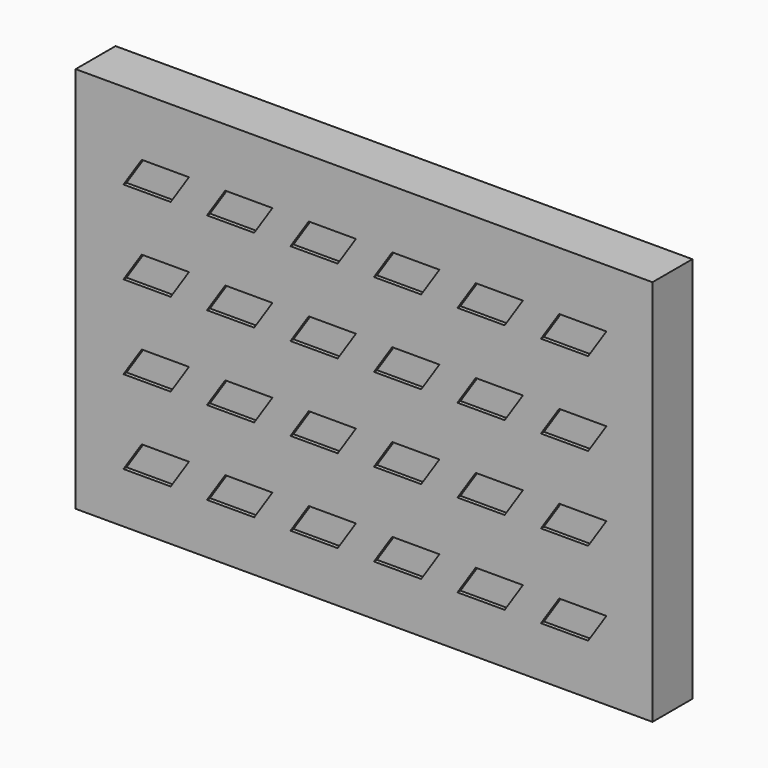
from build123d import *

# Parameters (mm, degrees)
F1_DEPTH = 614.3171619624
F2_T     = -25.4
F2_2_T   = -25.4
F2_3_T   = -25.4
F2_4_T   = -25.4
F2_5_T   = -25.4
F2_6_T   = -25.4
F2_7_T   = -25.4
F2_8_T   = -25.4
F2_9_T   = -25.4
F2_10_T  = -25.4
F2_11_T  = -25.4
F2_12_T  = -25.4
F2_13_T  = -25.4
F2_14_T  = -25.4
F2_15_T  = -25.4
F2_16_T  = -25.4
F2_17_T  = -25.4
F2_18_T  = -25.4
F2_19_T  = -25.4
F2_20_T  = -25.4
F2_21_T  = -25.4
F2_22_T  = -25.4
F2_23_T  = -25.4
F2_24_T  = -25.4
F0_W     = 3810
F0_H     = 2540
F3_DEPTH = 308.5524570197
F4_T     = 25.4


with BuildPart() as f1:
    # F0 (on Front) → F1 (new body)
    with BuildSketch(Plane.XZ):
        Polygon((978.6123950649, 1083.0130463778), (601.6698796917, 1083.0130463778), (446.1696592088, 846.6550945282), (823.112174582, 846.6550945282), align=None)
    extrude(amount=-F1_DEPTH)

    # F2#7
    f2_7_openings = [f1.faces().sort_by_distance(p)[0] for p in [
        (712.391027, 614.317162, 964.83407),
    ]]
    offset(amount=F2_7_T, openings=f2_7_openings)


with BuildPart() as f1b:
    # F0 (on Front) → F1, piece 2 (new body)
    with BuildSketch(Plane.XZ):
        Polygon((978.6124320554, 524.2130463778), (601.6699166821, 524.2130463778), (446.1696961992, 287.8550945282), (823.1122115724, 287.8550945282), align=None)
    extrude(amount=-F1_DEPTH)

    # F2#8
    f2_8_openings = [f1b.faces().sort_by_distance(p)[0] for p in [
        (712.391064, 614.317162, 406.03407),
    ]]
    offset(amount=F2_8_T, openings=f2_8_openings)


with BuildPart() as f1c:
    # F0 (on Front) → F1, piece 3 (new body)
    with BuildSketch(Plane.XZ):
        Polygon((978.6123580745, 1641.8130463778), (601.6698427013, 1641.8130463778), (446.1696222184, 1405.4550945282), (823.1121375916, 1405.4550945282), align=None)
    extrude(amount=-F1_DEPTH)

    # F2#2
    f2_2_openings = [f1c.faces().sort_by_distance(p)[0] for p in [
        (712.39099, 614.317162, 1523.63407),
    ]]
    offset(amount=F2_2_T, openings=f2_2_openings)


with BuildPart() as f1d:
    # F0 (on Front) → F1, piece 4 (new body)
    with BuildSketch(Plane.XZ):
        Polygon((978.6123210841, 2200.6130463778), (601.6698057109, 2200.6130463778), (446.169585228, 1964.2550945282), (823.1121006012, 1964.2550945282), align=None)
    extrude(amount=-F1_DEPTH)

    # F2
    f2_openings = [f1d.faces().sort_by_distance(p)[0] for p in [
        (712.390953, 614.317162, 2082.43407),
    ]]
    offset(amount=F2_T, openings=f2_openings)


with BuildPart() as f1e:
    # F0 (on Front) → F1, piece 5 (new body)
    with BuildSketch(Plane.XZ):
        Polygon((419.8124320554, 524.2130463778), (42.8699166821, 524.2130463778), (-112.6303038008, 287.8550945282), (264.3122115724, 287.8550945282), align=None)
    extrude(amount=-F1_DEPTH)

    # F2#24
    f2_24_openings = [f1e.faces().sort_by_distance(p)[0] for p in [
        (153.591064, 614.317162, 406.03407),
    ]]
    offset(amount=F2_24_T, openings=f2_24_openings)


with BuildPart() as f1f:
    # F0 (on Front) → F1, piece 6 (new body)
    with BuildSketch(Plane.XZ):
        Polygon((419.8123950649, 1083.0130463778), (42.8698796917, 1083.0130463778), (-112.6303407912, 846.6550945282), (264.312174582, 846.6550945282), align=None)
    extrude(amount=-F1_DEPTH)

    # F2#5
    f2_5_openings = [f1f.faces().sort_by_distance(p)[0] for p in [
        (153.591027, 614.317162, 964.83407),
    ]]
    offset(amount=F2_5_T, openings=f2_5_openings)


with BuildPart() as f1g:
    # F0 (on Front) → F1, piece 7 (new body)
    with BuildSketch(Plane.XZ):
        Polygon((419.8123580745, 1641.8130463778), (42.8698427013, 1641.8130463778), (-112.6303777816, 1405.4550945282), (264.3121375916, 1405.4550945282), align=None)
    extrude(amount=-F1_DEPTH)

    # F2#3
    f2_3_openings = [f1g.faces().sort_by_distance(p)[0] for p in [
        (153.59099, 614.317162, 1523.63407),
    ]]
    offset(amount=F2_3_T, openings=f2_3_openings)


with BuildPart() as f1h:
    # F0 (on Front) → F1, piece 8 (new body)
    with BuildSketch(Plane.XZ):
        Polygon((419.8123210841, 2200.6130463778), (42.8698057109, 2200.6130463778), (-112.630414772, 1964.2550945282), (264.3121006012, 1964.2550945282), align=None)
    extrude(amount=-F1_DEPTH)

    # F2#4
    f2_4_openings = [f1h.faces().sort_by_distance(p)[0] for p in [
        (153.590953, 614.317162, 2082.43407),
    ]]
    offset(amount=F2_4_T, openings=f2_4_openings)


with BuildPart() as f1i:
    # F0 (on Front) → F1, piece 9 (new body)
    with BuildSketch(Plane.XZ):
        Polygon((-138.9875679446, 524.2130463778), (-515.9300833179, 524.2130463778), (-671.4303038008, 287.8550945282), (-294.4877884276, 287.8550945282), align=None)
    extrude(amount=-F1_DEPTH)

    # F2#9
    f2_9_openings = [f1i.faces().sort_by_distance(p)[0] for p in [
        (-405.208936, 614.317162, 406.03407),
    ]]
    offset(amount=F2_9_T, openings=f2_9_openings)


with BuildPart() as f1j:
    # F0 (on Front) → F1, piece 10 (new body)
    with BuildSketch(Plane.XZ):
        Polygon((-138.9876049351, 1083.0130463778), (-515.9301203083, 1083.0130463778), (-671.4303407912, 846.6550945282), (-294.487825418, 846.6550945282), align=None)
    extrude(amount=-F1_DEPTH)

    # F2#6
    f2_6_openings = [f1j.faces().sort_by_distance(p)[0] for p in [
        (-405.208973, 614.317162, 964.83407),
    ]]
    offset(amount=F2_6_T, openings=f2_6_openings)


with BuildPart() as f1k:
    # F0 (on Front) → F1, piece 11 (new body)
    with BuildSketch(Plane.XZ):
        Polygon((-138.9876419255, 1641.8130463778), (-515.9301572987, 1641.8130463778), (-671.4303777816, 1405.4550945282), (-294.4878624084, 1405.4550945282), align=None)
    extrude(amount=-F1_DEPTH)

    # F2#10
    f2_10_openings = [f1k.faces().sort_by_distance(p)[0] for p in [
        (-405.20901, 614.317162, 1523.63407),
    ]]
    offset(amount=F2_10_T, openings=f2_10_openings)


with BuildPart() as f1l:
    # F0 (on Front) → F1, piece 12 (new body)
    with BuildSketch(Plane.XZ):
        Polygon((-138.9876789159, 2200.6130463778), (-515.9301942891, 2200.6130463778), (-671.430414772, 1964.2550945282), (-294.4878993988, 1964.2550945282), align=None)
    extrude(amount=-F1_DEPTH)

    # F2#11
    f2_11_openings = [f1l.faces().sort_by_distance(p)[0] for p in [
        (-405.209047, 614.317162, 2082.43407),
    ]]
    offset(amount=F2_11_T, openings=f2_11_openings)


with BuildPart() as f1m:
    # F0 (on Front) → F1, piece 13 (new body)
    with BuildSketch(Plane.XZ):
        Polygon((-697.7875679446, 524.2130463778), (-1074.7300833179, 524.2130463778), (-1230.2303038008, 287.8550945282), (-853.2877884276, 287.8550945282), align=None)
    extrude(amount=-F1_DEPTH)

    # F2#23
    f2_23_openings = [f1m.faces().sort_by_distance(p)[0] for p in [
        (-964.008936, 614.317162, 406.03407),
    ]]
    offset(amount=F2_23_T, openings=f2_23_openings)


with BuildPart() as f1n:
    # F0 (on Front) → F1, piece 14 (new body)
    with BuildSketch(Plane.XZ):
        Polygon((-697.7876049351, 1083.0130463778), (-1074.7301203083, 1083.0130463778), (-1230.2303407912, 846.6550945282), (-853.287825418, 846.6550945282), align=None)
    extrude(amount=-F1_DEPTH)

    # F2#12
    f2_12_openings = [f1n.faces().sort_by_distance(p)[0] for p in [
        (-964.008973, 614.317162, 964.83407),
    ]]
    offset(amount=F2_12_T, openings=f2_12_openings)


with BuildPart() as f1o:
    # F0 (on Front) → F1, piece 15 (new body)
    with BuildSketch(Plane.XZ):
        Polygon((-697.7876419255, 1641.8130463778), (-1074.7301572987, 1641.8130463778), (-1230.2303777816, 1405.4550945282), (-853.2878624084, 1405.4550945282), align=None)
    extrude(amount=-F1_DEPTH)

    # F2#13
    f2_13_openings = [f1o.faces().sort_by_distance(p)[0] for p in [
        (-964.00901, 614.317162, 1523.63407),
    ]]
    offset(amount=F2_13_T, openings=f2_13_openings)


with BuildPart() as f1p:
    # F0 (on Front) → F1, piece 16 (new body)
    with BuildSketch(Plane.XZ):
        Polygon((-697.7876789159, 2200.6130463778), (-1074.7301942891, 2200.6130463778), (-1230.230414772, 1964.2550945282), (-853.2878993988, 1964.2550945282), align=None)
    extrude(amount=-F1_DEPTH)

    # F2#14
    f2_14_openings = [f1p.faces().sort_by_distance(p)[0] for p in [
        (-964.009047, 614.317162, 2082.43407),
    ]]
    offset(amount=F2_14_T, openings=f2_14_openings)


with BuildPart() as f1q:
    # F0 (on Front) → F1, piece 17 (new body)
    with BuildSketch(Plane.XZ):
        Polygon((-1256.5875679446, 524.2130463778), (-1633.5300833179, 524.2130463778), (-1789.0303038008, 287.8550945282), (-1412.0877884276, 287.8550945282), align=None)
    extrude(amount=-F1_DEPTH)

    # F2#15
    f2_15_openings = [f1q.faces().sort_by_distance(p)[0] for p in [
        (-1522.808936, 614.317162, 406.03407),
    ]]
    offset(amount=F2_15_T, openings=f2_15_openings)


with BuildPart() as f1r:
    # F0 (on Front) → F1, piece 18 (new body)
    with BuildSketch(Plane.XZ):
        Polygon((-1256.5876049351, 1083.0130463778), (-1633.5301203083, 1083.0130463778), (-1789.0303407912, 846.6550945282), (-1412.087825418, 846.6550945282), align=None)
    extrude(amount=-F1_DEPTH)

    # F2#16
    f2_16_openings = [f1r.faces().sort_by_distance(p)[0] for p in [
        (-1522.808973, 614.317162, 964.83407),
    ]]
    offset(amount=F2_16_T, openings=f2_16_openings)


with BuildPart() as f1s:
    # F0 (on Front) → F1, piece 19 (new body)
    with BuildSketch(Plane.XZ):
        Polygon((-1256.5876419255, 1641.8130463778), (-1633.5301572987, 1641.8130463778), (-1789.0303777816, 1405.4550945282), (-1412.0878624084, 1405.4550945282), align=None)
    extrude(amount=-F1_DEPTH)

    # F2#17
    f2_17_openings = [f1s.faces().sort_by_distance(p)[0] for p in [
        (-1522.80901, 614.317162, 1523.63407),
    ]]
    offset(amount=F2_17_T, openings=f2_17_openings)


with BuildPart() as f1t:
    # F0 (on Front) → F1, piece 20 (new body)
    with BuildSketch(Plane.XZ):
        Polygon((-1256.5876789159, 2200.6130463778), (-1633.5301942891, 2200.6130463778), (-1789.030414772, 1964.2550945282), (-1412.0878993988, 1964.2550945282), align=None)
    extrude(amount=-F1_DEPTH)

    # F2#18
    f2_18_openings = [f1t.faces().sort_by_distance(p)[0] for p in [
        (-1522.809047, 614.317162, 2082.43407),
    ]]
    offset(amount=F2_18_T, openings=f2_18_openings)


with BuildPart() as f1u:
    # F0 (on Front) → F1, piece 21 (new body)
    with BuildSketch(Plane.XZ):
        Polygon((-1815.3875679446, 524.2130463778), (-2192.3300833179, 524.2130463778), (-2347.8303038008, 287.8550945282), (-1970.8877884276, 287.8550945282), align=None)
    extrude(amount=-F1_DEPTH)

    # F2#22
    f2_22_openings = [f1u.faces().sort_by_distance(p)[0] for p in [
        (-2081.608936, 614.317162, 406.03407),
    ]]
    offset(amount=F2_22_T, openings=f2_22_openings)


with BuildPart() as f1v:
    # F0 (on Front) → F1, piece 22 (new body)
    with BuildSketch(Plane.XZ):
        Polygon((-1815.3876049351, 1083.0130463778), (-2192.3301203083, 1083.0130463778), (-2347.8303407912, 846.6550945282), (-1970.887825418, 846.6550945282), align=None)
    extrude(amount=-F1_DEPTH)

    # F2#21
    f2_21_openings = [f1v.faces().sort_by_distance(p)[0] for p in [
        (-2081.608973, 614.317162, 964.83407),
    ]]
    offset(amount=F2_21_T, openings=f2_21_openings)


with BuildPart() as f1w:
    # F0 (on Front) → F1, piece 23 (new body)
    with BuildSketch(Plane.XZ):
        Polygon((-1815.3876419255, 1641.8130463778), (-2192.3301572987, 1641.8130463778), (-2347.8303777816, 1405.4550945282), (-1970.8878624084, 1405.4550945282), align=None)
    extrude(amount=-F1_DEPTH)

    # F2#20
    f2_20_openings = [f1w.faces().sort_by_distance(p)[0] for p in [
        (-2081.60901, 614.317162, 1523.63407),
    ]]
    offset(amount=F2_20_T, openings=f2_20_openings)


with BuildPart() as f1x:
    # F0 (on Front) → F1, piece 24 (new body)
    with BuildSketch(Plane.XZ):
        Polygon((-1815.3876789159, 2200.6130463778), (-2192.3301942891, 2200.6130463778), (-2347.830414772, 1964.2550945282), (-1970.8878993988, 1964.2550945282), align=None)
    extrude(amount=-F1_DEPTH)

    # F2#19
    f2_19_openings = [f1x.faces().sort_by_distance(p)[0] for p in [
        (-2081.609047, 614.317162, 2082.43407),
    ]]
    offset(amount=F2_19_T, openings=f2_19_openings)


with BuildPart() as f3:
    # F0 (on Front) → F3 (new body)
    with BuildSketch(Plane.XZ):
        with Locations((-690.6674090427, 1270)):
            Rectangle(F0_W, F0_H)
        Polygon((-2347.8303038008, 287.8550945282), (-2192.3300833179, 524.2130463778), (-1815.3875679446, 524.2130463778), (-1970.8877884276, 287.8550945282), align=None, mode=Mode.SUBTRACT)
        Polygon((-1789.0303038008, 287.8550945282), (-1633.5300833179, 524.2130463778), (-1256.5875679446, 524.2130463778), (-1412.0877884276, 287.8550945282), align=None, mode=Mode.SUBTRACT)
        Polygon((-1230.2303038008, 287.8550945282), (-1074.7300833179, 524.2130463778), (-697.7875679446, 524.2130463778), (-853.2877884276, 287.8550945282), align=None, mode=Mode.SUBTRACT)
        Polygon((-2347.8303407912, 846.6550945282), (-2192.3301203083, 1083.0130463778), (-1815.3876049351, 1083.0130463778), (-1970.887825418, 846.6550945282), align=None, mode=Mode.SUBTRACT)
        Polygon((-1789.0303407912, 846.6550945282), (-1633.5301203083, 1083.0130463778), (-1256.5876049351, 1083.0130463778), (-1412.087825418, 846.6550945282), align=None, mode=Mode.SUBTRACT)
        Polygon((-1230.2303407912, 846.6550945282), (-1074.7301203083, 1083.0130463778), (-697.7876049351, 1083.0130463778), (-853.287825418, 846.6550945282), align=None, mode=Mode.SUBTRACT)
        Polygon((-671.4303038008, 287.8550945282), (-515.9300833179, 524.2130463778), (-138.9875679446, 524.2130463778), (-294.4877884276, 287.8550945282), align=None, mode=Mode.SUBTRACT)
        Polygon((-112.6303038008, 287.8550945282), (42.8699166821, 524.2130463778), (419.8124320554, 524.2130463778), (264.3122115724, 287.8550945282), align=None, mode=Mode.SUBTRACT)
        Polygon((446.1696961992, 287.8550945282), (601.6699166821, 524.2130463778), (978.6124320554, 524.2130463778), (823.1122115724, 287.8550945282), align=None, mode=Mode.SUBTRACT)
        Polygon((-671.4303407912, 846.6550945282), (-515.9301203083, 1083.0130463778), (-138.9876049351, 1083.0130463778), (-294.487825418, 846.6550945282), align=None, mode=Mode.SUBTRACT)
        Polygon((-112.6303407912, 846.6550945282), (42.8698796917, 1083.0130463778), (419.8123950649, 1083.0130463778), (264.312174582, 846.6550945282), align=None, mode=Mode.SUBTRACT)
        Polygon((446.1696592088, 846.6550945282), (601.6698796917, 1083.0130463778), (978.6123950649, 1083.0130463778), (823.112174582, 846.6550945282), align=None, mode=Mode.SUBTRACT)
        Polygon((-2347.8303777816, 1405.4550945282), (-2192.3301572987, 1641.8130463778), (-1815.3876419255, 1641.8130463778), (-1970.8878624084, 1405.4550945282), align=None, mode=Mode.SUBTRACT)
        Polygon((-1789.0303777816, 1405.4550945282), (-1633.5301572987, 1641.8130463778), (-1256.5876419255, 1641.8130463778), (-1412.0878624084, 1405.4550945282), align=None, mode=Mode.SUBTRACT)
        Polygon((-1230.2303777816, 1405.4550945282), (-1074.7301572987, 1641.8130463778), (-697.7876419255, 1641.8130463778), (-853.2878624084, 1405.4550945282), align=None, mode=Mode.SUBTRACT)
        Polygon((-2347.830414772, 1964.2550945282), (-2192.3301942891, 2200.6130463778), (-1815.3876789159, 2200.6130463778), (-1970.8878993988, 1964.2550945282), align=None, mode=Mode.SUBTRACT)
        Polygon((-1789.030414772, 1964.2550945282), (-1633.5301942891, 2200.6130463778), (-1256.5876789159, 2200.6130463778), (-1412.0878993988, 1964.2550945282), align=None, mode=Mode.SUBTRACT)
        Polygon((-1230.230414772, 1964.2550945282), (-1074.7301942891, 2200.6130463778), (-697.7876789159, 2200.6130463778), (-853.2878993988, 1964.2550945282), align=None, mode=Mode.SUBTRACT)
        Polygon((-671.4303777816, 1405.4550945282), (-515.9301572987, 1641.8130463778), (-138.9876419255, 1641.8130463778), (-294.4878624084, 1405.4550945282), align=None, mode=Mode.SUBTRACT)
        Polygon((-112.6303777816, 1405.4550945282), (42.8698427013, 1641.8130463778), (419.8123580745, 1641.8130463778), (264.3121375916, 1405.4550945282), align=None, mode=Mode.SUBTRACT)
        Polygon((446.1696222184, 1405.4550945282), (601.6698427013, 1641.8130463778), (978.6123580745, 1641.8130463778), (823.1121375916, 1405.4550945282), align=None, mode=Mode.SUBTRACT)
        Polygon((-671.430414772, 1964.2550945282), (-515.9301942891, 2200.6130463778), (-138.9876789159, 2200.6130463778), (-294.4878993988, 1964.2550945282), align=None, mode=Mode.SUBTRACT)
        Polygon((-112.630414772, 1964.2550945282), (42.8698057109, 2200.6130463778), (419.8123210841, 2200.6130463778), (264.3121006012, 1964.2550945282), align=None, mode=Mode.SUBTRACT)
        Polygon((446.169585228, 1964.2550945282), (601.6698057109, 2200.6130463778), (978.6123210841, 2200.6130463778), (823.1121006012, 1964.2550945282), align=None, mode=Mode.SUBTRACT)
    extrude(amount=-F3_DEPTH)

    # F4
    f4_openings = [f3.faces().sort_by_distance(p)[0] for p in [
        (-692.385685, 308.552457, 1277.307679),
    ]]
    offset(amount=F4_T, openings=f4_openings, kind=Kind.INTERSECTION)


solid = Compound([f1.part, f1b.part, f1c.part, f1d.part, f1e.part, f1f.part, f1g.part, f1h.part, f1i.part, f1j.part, f1k.part, f1l.part, f1m.part, f1n.part, f1o.part, f1p.part, f1q.part, f1r.part, f1s.part, f1t.part, f1u.part, f1v.part, f1w.part, f1x.part, f3.part])
